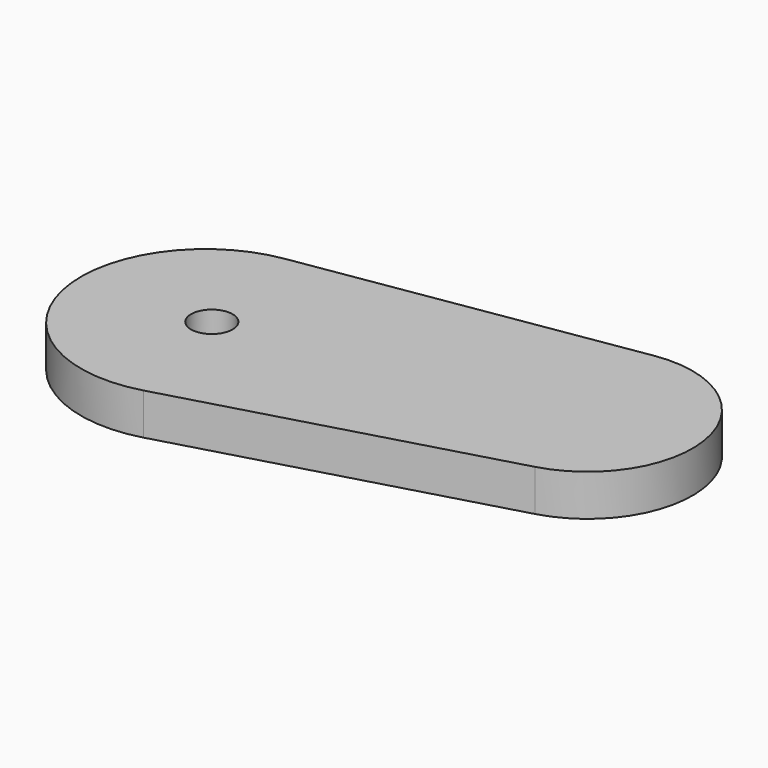
from build123d import *

# Parameters (mm, degrees)
F0_R     = 3.175
F1_DEPTH = 6.35
F2_DEPTH = 6.35


with BuildPart() as f1:
    # F0 (on Top) → F1 (new body)
    with BuildSketch(Plane.XY):
        with BuildLine():
            ThreePointArc((-3.441564, 18.17523), (-19.054761, -4.728475), (4.724802, -18.97221))
            Line((4.724802, -18.97221), (53.615341, -5.175283))
            ThreePointArc((53.615341, -5.175283), (64.943926, 13.737508), (46.727738, 26.155278))
            Line((46.727738, 26.155278), (-3.441564, 18.17523))
        make_face()
        Circle(F0_R, mode=Mode.SUBTRACT)
    extrude(amount=F1_DEPTH)

    # F0 (on Top) → F2 (join)
    with BuildSketch(Plane.XY):
        with BuildLine():
            ThreePointArc((-3.441564, 18.17523), (-19.054761, -4.728475), (4.724802, -18.97221))
            Line((4.724802, -18.97221), (53.615341, -5.175283))
            ThreePointArc((53.615341, -5.175283), (64.943926, 13.737508), (46.727738, 26.155278))
            Line((46.727738, 26.155278), (-3.441564, 18.17523))
        make_face()
        Circle(F0_R, mode=Mode.SUBTRACT)
    extrude(amount=F2_DEPTH)


solid = f1.part
